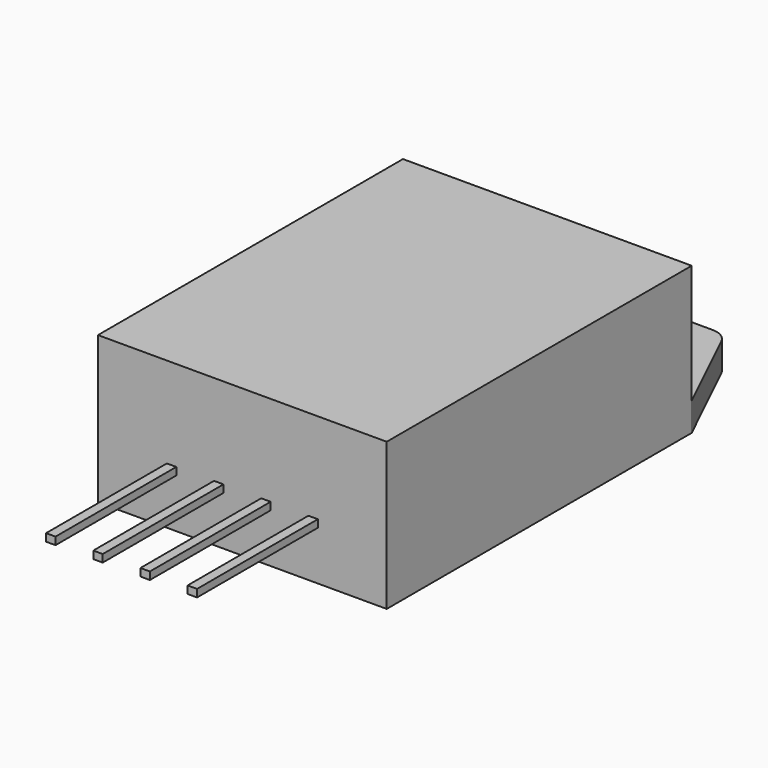
from build123d import *

# Parameters (mm, degrees)
F0_R     = 1.3
F1_DEPTH = 1.5
F0_W     = 15.3
F0_H     = 20.2
F2_DEPTH = 7.8
F3_W     = 0.5
F3_H     = 0.4
F4_DEPTH = 8


with BuildPart() as f1:
    # F0 (on Top) → F1 (new body)
    with BuildSketch(Plane.XY):
        with BuildLine():
            Line((-5.272679, 2.234062), (-7.65, -2.7))
            Line((-7.65, -2.7), (7.65, -2.7))
            Line((7.65, -2.7), (5.272679, 2.234062))
            ThreePointArc((5.272679, 2.234062), (4.903745, 2.646777), (4.371796, 2.8))
            Line((4.371796, 2.8), (-4.371796, 2.8))
            ThreePointArc((-4.371796, 2.8), (-4.903745, 2.646777), (-5.272679, 2.234062))
        make_face()
        Circle(F0_R, mode=Mode.SUBTRACT)
    extrude(amount=F1_DEPTH)

    # F0 (on Top) → F2 (join)
    with BuildSketch(Plane.XY):
        with Locations((0, -12.8)):
            Rectangle(F0_W, F0_H)
    extrude(amount=F2_DEPTH)

    # F3 (on face) → F4 (join)
    with BuildSketch(Plane.XZ.offset(22.9)):
        with Locations((-3.75, 2.8)):
            Rectangle(F3_W, F3_H)
        with Locations((-1.25, 2.8)):
            Rectangle(F3_W, F3_H)
        with Locations((1.25, 2.8)):
            Rectangle(F3_W, F3_H)
        with Locations((3.75, 2.8)):
            Rectangle(F3_W, F3_H)
    extrude(amount=F4_DEPTH)


solid = f1.part
